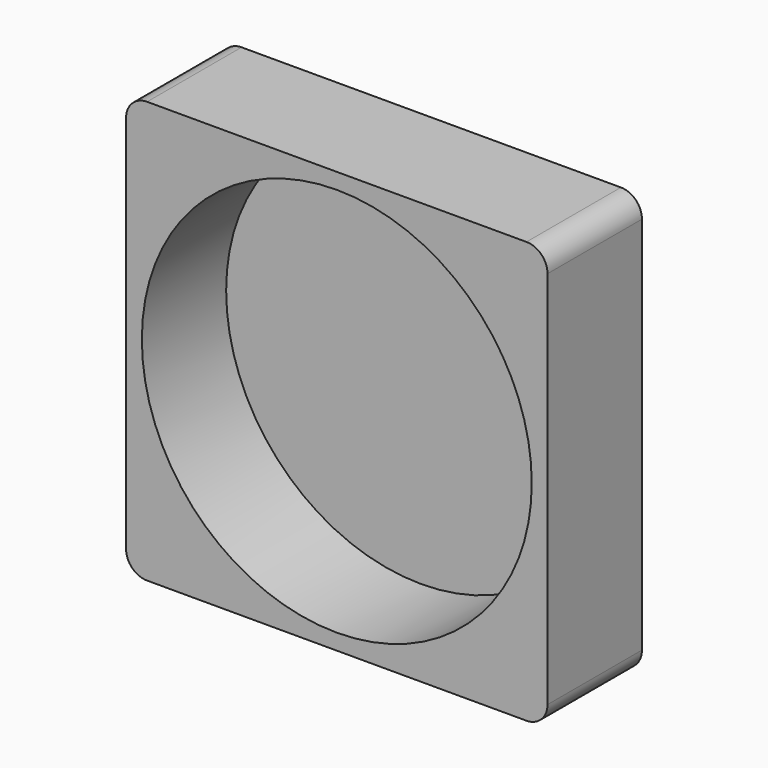
from build123d import *

# Parameters (mm, degrees)
CYLINDER057_R        = 18.5
CYLINDER057_DEPTH    = 10
BOX085108_W          = 40
BOX085108_H          = 11.2
BOX085108_DEPTH      = 40
FILLET005011017060_R = 2


with BuildPart() as cylinder057:
    # Cylinder057 → Cylinder057 (new body)
    with BuildSketch(Plane(origin=(20, 10, 20), x_dir=(1, 0, 0), z_dir=(0, -1, 0))):
        Circle(CYLINDER057_R)
    extrude(amount=CYLINDER057_DEPTH)


with BuildPart() as f_40mm_fan:
    # Box085108 → Box085108 (new body)
    with BuildSketch(Plane.XY):
        with Locations((20, 5.6)):
            Rectangle(BOX085108_W, BOX085108_H)
    extrude(amount=BOX085108_DEPTH)

    # Cut001002016030: cut Cylinder057
    add(cylinder057.part, mode=Mode.SUBTRACT)

    # Fillet005011017060
    fillet005011017060_edges = [f_40mm_fan.edges().sort_by_distance(p)[0] for p in [
        (0, 5.6, 40),
        (0, 5.6, 0),
        (40, 5.6, 40),
        (40, 5.6, 0),
    ]]
    fillet(fillet005011017060_edges, radius=FILLET005011017060_R)


with BuildPart() as f_40mm_fan_1:
    # Fillet005011017060 placement: moved
    add(f_40mm_fan.part.moved(Location((151, 106.8, 6))))


solid = f_40mm_fan_1.part
